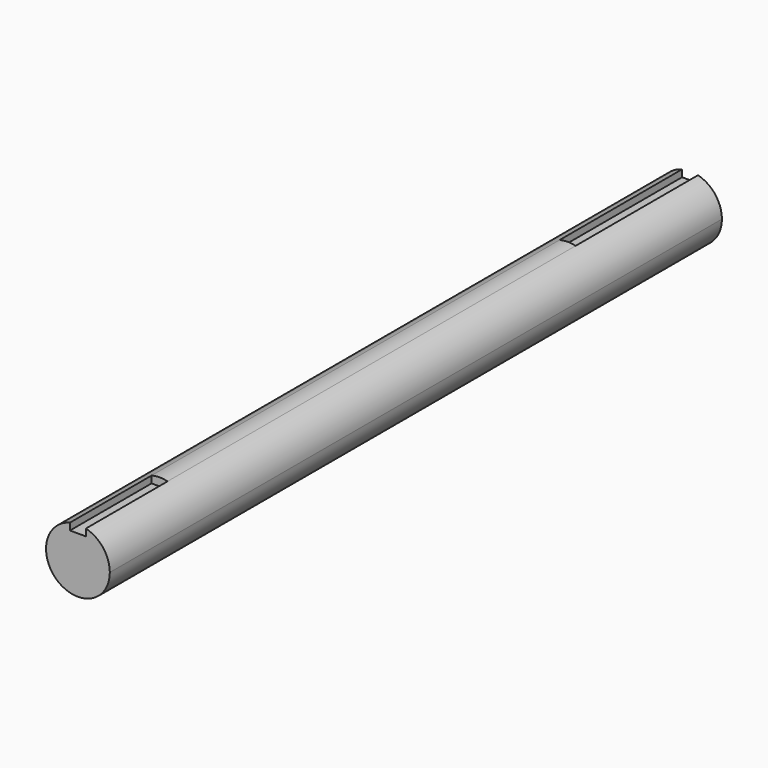
from build123d import *

# Parameters (mm, degrees)
F1_DEPTH = 762
F2_DEPTH = 152.4
F4_DEPTH = 101.6


with BuildPart() as f1:
    # F0 (on Front) → F1 (new body)
    with BuildSketch(Plane.XZ):
        with BuildLine():
            ThreePointArc((-7.9375, 30.741805), (-19.442825, -25.100579), (31.75, 0))
            ThreePointArc((31.75, 0), (25.100579, 19.442825), (7.9375, 30.741805))
            Line((7.9375, 30.741805), (7.9375, 23.8125))
            Line((7.9375, 23.8125), (-7.9375, 23.8125))
            Line((-7.9375, 23.8125), (-7.9375, 30.741805))
        make_face()
        with BuildLine():
            Line((7.9375, 23.8125), (7.9375, 30.741805))
            ThreePointArc((7.9375, 30.741805), (0, 31.75), (-7.9375, 30.741805))
            Line((-7.9375, 30.741805), (-7.9375, 23.8125))
            Line((-7.9375, 23.8125), (7.9375, 23.8125))
        make_face()
    extrude(amount=F1_DEPTH)

    # F0 (on Front) → F2 (cut)
    with BuildSketch(Plane.XZ):
        with BuildLine():
            Line((7.9375, 23.8125), (7.9375, 30.741805))
            ThreePointArc((7.9375, 30.741805), (0, 31.75), (-7.9375, 30.741805))
            Line((-7.9375, 30.741805), (-7.9375, 23.8125))
            Line((-7.9375, 23.8125), (7.9375, 23.8125))
        make_face()
    extrude(amount=F2_DEPTH, mode=Mode.SUBTRACT)

    # F3 (on face) → F4 (cut)
    with BuildSketch(Plane.XZ.offset(762)):
        with BuildLine():
            Line((-7.9375, 23.8125), (7.9375, 23.8125))
            Line((7.9375, 23.8125), (7.9375, 30.741805))
            ThreePointArc((7.9375, 30.741805), (0, 31.75), (-7.9375, 30.741805))
            Line((-7.9375, 30.741805), (-7.9375, 23.8125))
        make_face()
    extrude(amount=-F4_DEPTH, mode=Mode.SUBTRACT)


solid = f1.part
